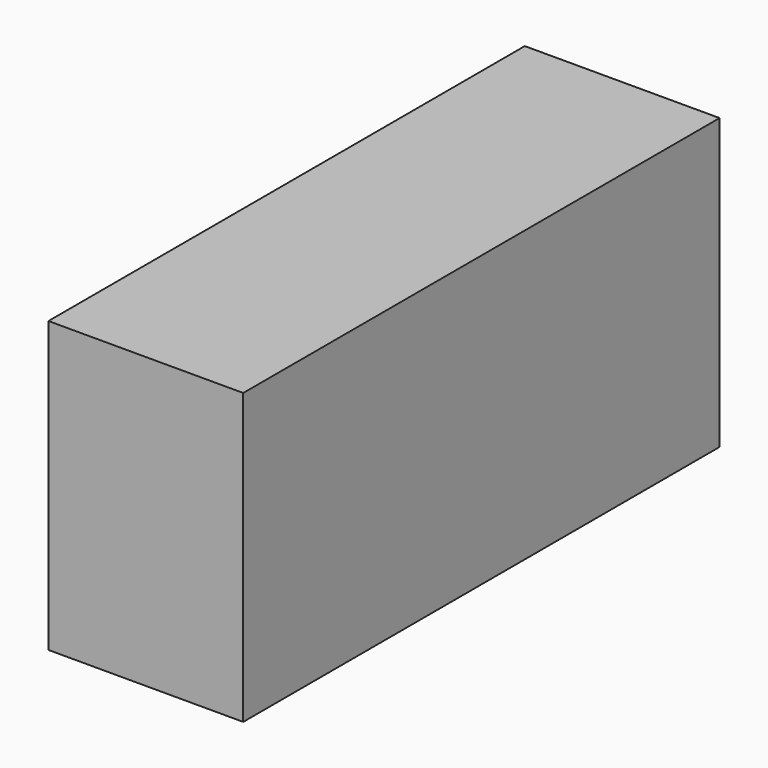
from build123d import *

# Parameters (mm, degrees)
F0_W     = 13.453837
F0_H     = 41.123457
F3_DEPTH = 20


with BuildPart() as f3:
    # F0 (on offset) → F3 (new body)
    with BuildSketch(Plane.XY.offset(25.4)):
        with Locations((-6.726919, 4.062216)):
            Rectangle(F0_W, F0_H)
    extrude(amount=F3_DEPTH)


solid = f3.part
